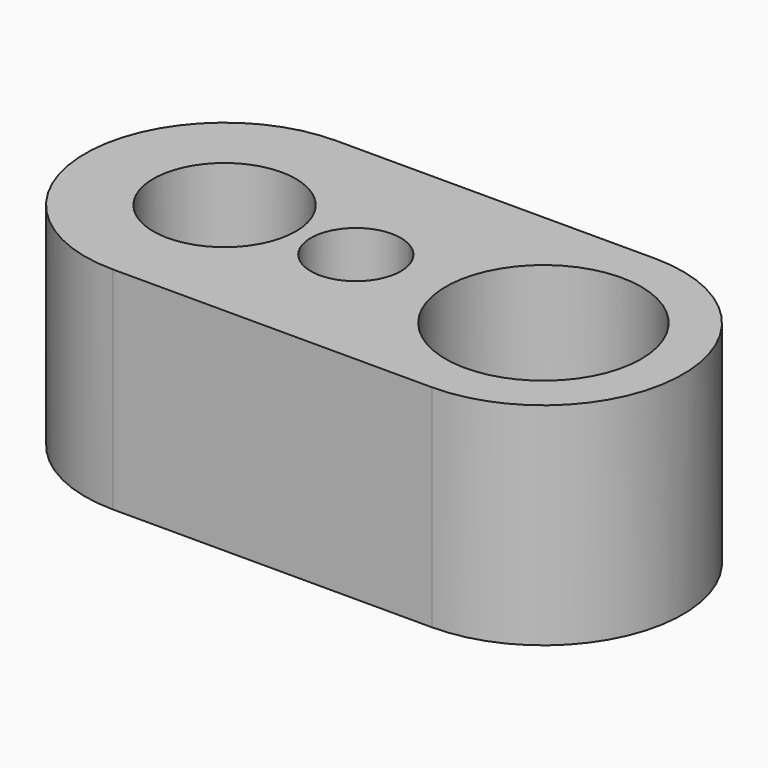
from build123d import *

# Parameters (mm, degrees)
F0_R     = 25.251091
F0_R_2   = 34.67864
F1_DEPTH = 74.917516
F3_R     = 15.958486
F4_DEPTH = 166.148052


with BuildPart() as f1:
    # F0 (on Top) → F1 (new body)
    with BuildSketch(Plane.XY):
        with BuildLine():
            Line((66.128343, 37.119031), (-46.920933, 37.119031))
            ThreePointArc((-46.920933, 37.119031), (-96.356399, -12.316436), (-46.920933, -61.751902))
            Line((-46.920933, -61.751902), (66.128343, -61.751902))
            ThreePointArc((66.128343, -61.751902), (115.56381, -12.316436), (66.128343, 37.119031))
        make_face()
        with Locations((-46.920933, -12.316436)):
            Circle(F0_R, mode=Mode.SUBTRACT)
        with Locations((66.128343, -12.316436)):
            Circle(F0_R_2, mode=Mode.SUBTRACT)
    extrude(amount=F1_DEPTH)

    # F3 (on face) → F4 (cut)
    with BuildSketch(Plane.XY.offset(74.917516)):
        with Locations((0, -12.790158)):
            Circle(F3_R)
    extrude(amount=-F4_DEPTH, mode=Mode.SUBTRACT)


solid = f1.part
